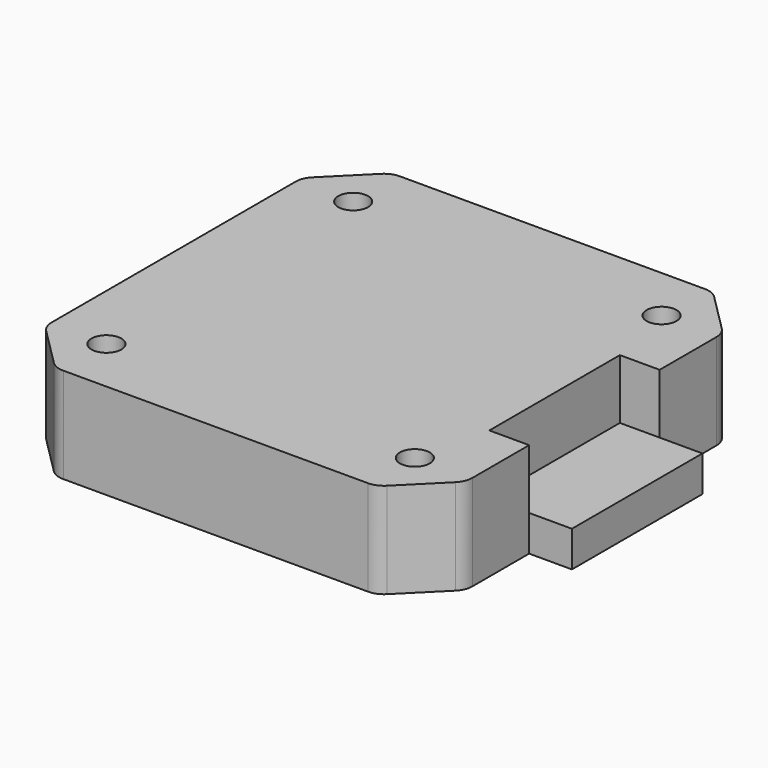
from build123d import *

# Parameters (mm, degrees)
SKETCH003_W      = 42.3
SKETCH003_H      = 42.3
PAD003_DEPTH     = 9.6
SKETCH004_W      = 4.3
SKETCH004_H      = 16.4
PAD001_DEPTH     = 3.6
CHAMFER_SIZE     = 5
FILLET_R         = 2
HOLE_D           = 3
HOLE_DEPTH       = 25
HOLE_CBORE_D     = 5
HOLE_CBORE_DEPTH = 5
SKETCH016_W      = 16.4
SKETCH016_H      = 6
POCKET006_DEPTH  = 4


with BuildPart() as part:
    # Sketch003 → Pad003 (new body)
    with BuildSketch(Plane.XY):
        Rectangle(SKETCH003_W, SKETCH003_H)
    extrude(amount=PAD003_DEPTH)

    # Sketch004 → Pad001 (join)
    with BuildSketch(Plane.XY):
        with Locations((23.3, 0)):
            Rectangle(SKETCH004_W, SKETCH004_H)
    extrude(amount=PAD001_DEPTH)

    # Chamfer
    chamfer_edges = [part.edges().sort_by_distance(p)[0] for p in [
        (21.15, -21.15, 4.8),
        (-21.15, -21.15, 4.8),
        (-21.15, 21.15, 4.8),
        (21.15, 21.15, 4.8),
    ]]
    chamfer(chamfer_edges, length=CHAMFER_SIZE)

    # Fillet
    fillet_edges = [part.edges().sort_by_distance(p)[0] for p in [
        (16.15, -21.15, 4.8),
        (21.15, -16.15, 4.8),
        (21.15, 16.15, 4.8),
        (16.15, 21.15, 4.8),
        (-16.15, 21.15, 4.8),
        (-21.15, 16.15, 4.8),
        (-16.15, -21.15, 4.8),
        (-21.15, -16.15, 4.8),
    ]]
    fillet(fillet_edges, radius=FILLET_R)

    # Hole
    with Locations(Plane(origin=(0, 0, 0), x_dir=(1, 0, 0), z_dir=(0, 0, -1))):
        with Locations((-15.5, 15.5), (15.5, 15.5), (15.5, -15.5), (-15.5, -15.5)):
            CounterBoreHole(HOLE_D / 2, HOLE_CBORE_D / 2, HOLE_CBORE_DEPTH, depth=HOLE_DEPTH)

    # Sketch016 (on Face11 of Hole) → Pocket006 (cut)
    with BuildSketch(Plane.YZ.offset(21.15)):
        with Locations((0, 6.6)):
            Rectangle(SKETCH016_W, SKETCH016_H)
    extrude(amount=-POCKET006_DEPTH, mode=Mode.SUBTRACT)


solid = part.part
